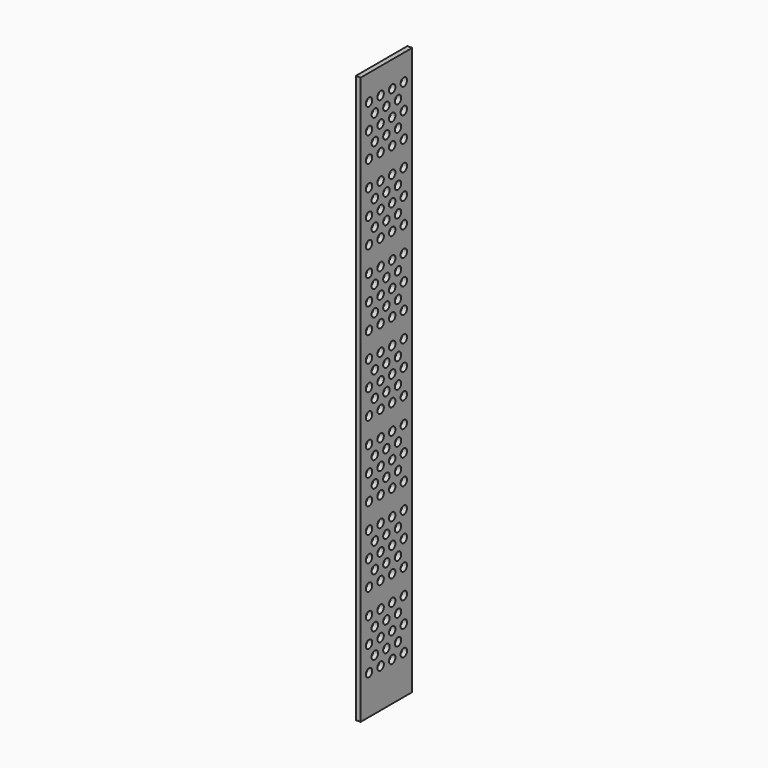
from build123d import *

# Parameters (mm, degrees)
F1_W     = 254
F1_H     = 2235.2
F1_R     = 15.875
F2_DEPTH = 19.05


with BuildPart() as f2:
    # F1 (on Right) → F2 (new body)
    with BuildSketch(Plane.YZ):
        Rectangle(F1_W, F1_H)
        with Locations((-85.725, -963.734073)):
            Circle(F1_R, mode=Mode.SUBTRACT)
        with Locations((-85.725, -864.747369)):
            Circle(F1_R, mode=Mode.SUBTRACT)
        with Locations((-85.725, -765.760666)):
            Circle(F1_R, mode=Mode.SUBTRACT)
        with Locations((-85.725, -666.773962)):
            Circle(F1_R, mode=Mode.SUBTRACT)
        with Locations((-85.725, -567.787258)):
            Circle(F1_R, mode=Mode.SUBTRACT)
        with Locations((-57.15, -914.240721)):
            Circle(F1_R, mode=Mode.SUBTRACT)
        with Locations((-28.575, -963.734073)):
            Circle(F1_R, mode=Mode.SUBTRACT)
        with Locations((-28.575, -864.747369)):
            Circle(F1_R, mode=Mode.SUBTRACT)
        with Locations((-57.15, -815.254018)):
            Circle(F1_R, mode=Mode.SUBTRACT)
        with Locations((-57.15, -617.28061)):
            Circle(F1_R, mode=Mode.SUBTRACT)
        with Locations((-28.575, -765.760666)):
            Circle(F1_R, mode=Mode.SUBTRACT)
        with Locations((-28.575, -666.773962)):
            Circle(F1_R, mode=Mode.SUBTRACT)
        with Locations((-28.575, -567.787258)):
            Circle(F1_R, mode=Mode.SUBTRACT)
        with Locations((-85.725, -468.800555)):
            Circle(F1_R, mode=Mode.SUBTRACT)
        with Locations((-85.725, -369.813851)):
            Circle(F1_R, mode=Mode.SUBTRACT)
        with Locations((-85.725, -270.827147)):
            Circle(F1_R, mode=Mode.SUBTRACT)
        with Locations((-85.725, -171.840444)):
            Circle(F1_R, mode=Mode.SUBTRACT)
        with Locations((-85.725, -72.85374)):
            Circle(F1_R, mode=Mode.SUBTRACT)
        with Locations((-57.15, -518.293907)):
            Circle(F1_R, mode=Mode.SUBTRACT)
        with Locations((-57.15, -320.320499)):
            Circle(F1_R, mode=Mode.SUBTRACT)
        with Locations((-28.575, -468.800555)):
            Circle(F1_R, mode=Mode.SUBTRACT)
        with Locations((-28.575, -369.813851)):
            Circle(F1_R, mode=Mode.SUBTRACT)
        with Locations((-57.15, -221.333796)):
            Circle(F1_R, mode=Mode.SUBTRACT)
        with Locations((-57.15, -23.360388)):
            Circle(F1_R, mode=Mode.SUBTRACT)
        with Locations((-28.575, -270.827147)):
            Circle(F1_R, mode=Mode.SUBTRACT)
        with Locations((-28.575, -171.840444)):
            Circle(F1_R, mode=Mode.SUBTRACT)
        with Locations((-28.575, -72.85374)):
            Circle(F1_R, mode=Mode.SUBTRACT)
        with Locations((0, -914.240721)):
            Circle(F1_R, mode=Mode.SUBTRACT)
        with Locations((28.575, -963.734073)):
            Circle(F1_R, mode=Mode.SUBTRACT)
        with Locations((28.575, -864.747369)):
            Circle(F1_R, mode=Mode.SUBTRACT)
        with Locations((57.15, -914.240721)):
            Circle(F1_R, mode=Mode.SUBTRACT)
        with Locations((0, -815.254018)):
            Circle(F1_R, mode=Mode.SUBTRACT)
        with Locations((28.575, -765.760666)):
            Circle(F1_R, mode=Mode.SUBTRACT)
        with Locations((0, -617.28061)):
            Circle(F1_R, mode=Mode.SUBTRACT)
        with Locations((28.575, -666.773962)):
            Circle(F1_R, mode=Mode.SUBTRACT)
        with Locations((28.575, -567.787258)):
            Circle(F1_R, mode=Mode.SUBTRACT)
        with Locations((57.15, -815.254018)):
            Circle(F1_R, mode=Mode.SUBTRACT)
        with Locations((57.15, -617.28061)):
            Circle(F1_R, mode=Mode.SUBTRACT)
        with Locations((85.725, -963.734073)):
            Circle(F1_R, mode=Mode.SUBTRACT)
        with Locations((85.725, -864.747369)):
            Circle(F1_R, mode=Mode.SUBTRACT)
        with Locations((85.725, -765.760666)):
            Circle(F1_R, mode=Mode.SUBTRACT)
        with Locations((85.725, -666.773962)):
            Circle(F1_R, mode=Mode.SUBTRACT)
        with Locations((85.725, -567.787258)):
            Circle(F1_R, mode=Mode.SUBTRACT)
        with Locations((0, -518.293907)):
            Circle(F1_R, mode=Mode.SUBTRACT)
        with Locations((28.575, -468.800555)):
            Circle(F1_R, mode=Mode.SUBTRACT)
        with Locations((0, -320.320499)):
            Circle(F1_R, mode=Mode.SUBTRACT)
        with Locations((28.575, -369.813851)):
            Circle(F1_R, mode=Mode.SUBTRACT)
        with Locations((57.15, -518.293907)):
            Circle(F1_R, mode=Mode.SUBTRACT)
        with Locations((57.15, -320.320499)):
            Circle(F1_R, mode=Mode.SUBTRACT)
        with Locations((0, -221.333796)):
            Circle(F1_R, mode=Mode.SUBTRACT)
        with Locations((28.575, -270.827147)):
            Circle(F1_R, mode=Mode.SUBTRACT)
        with Locations((28.575, -171.840444)):
            Circle(F1_R, mode=Mode.SUBTRACT)
        with Locations((0, -23.360388)):
            Circle(F1_R, mode=Mode.SUBTRACT)
        with Locations((28.575, -72.85374)):
            Circle(F1_R, mode=Mode.SUBTRACT)
        with Locations((57.15, -221.333796)):
            Circle(F1_R, mode=Mode.SUBTRACT)
        with Locations((57.15, -23.360388)):
            Circle(F1_R, mode=Mode.SUBTRACT)
        with Locations((85.725, -468.800555)):
            Circle(F1_R, mode=Mode.SUBTRACT)
        with Locations((85.725, -369.813851)):
            Circle(F1_R, mode=Mode.SUBTRACT)
        with Locations((85.725, -270.827147)):
            Circle(F1_R, mode=Mode.SUBTRACT)
        with Locations((85.725, -171.840444)):
            Circle(F1_R, mode=Mode.SUBTRACT)
        with Locations((85.725, -72.85374)):
            Circle(F1_R, mode=Mode.SUBTRACT)
        with Locations((-85.725, 26.132963)):
            Circle(F1_R, mode=Mode.SUBTRACT)
        with Locations((-85.725, 125.119667)):
            Circle(F1_R, mode=Mode.SUBTRACT)
        with Locations((-85.725, 224.106371)):
            Circle(F1_R, mode=Mode.SUBTRACT)
        with Locations((-85.725, 323.093074)):
            Circle(F1_R, mode=Mode.SUBTRACT)
        with Locations((-85.725, 422.079778)):
            Circle(F1_R, mode=Mode.SUBTRACT)
        with Locations((-85.725, 521.066482)):
            Circle(F1_R, mode=Mode.SUBTRACT)
        with Locations((-57.15, 75.626315)):
            Circle(F1_R, mode=Mode.SUBTRACT)
        with Locations((-57.15, 273.599723)):
            Circle(F1_R, mode=Mode.SUBTRACT)
        with Locations((-28.575, 26.132963)):
            Circle(F1_R, mode=Mode.SUBTRACT)
        with Locations((-28.575, 125.119667)):
            Circle(F1_R, mode=Mode.SUBTRACT)
        with Locations((-28.575, 224.106371)):
            Circle(F1_R, mode=Mode.SUBTRACT)
        with Locations((-57.15, 372.586426)):
            Circle(F1_R, mode=Mode.SUBTRACT)
        with Locations((-28.575, 323.093074)):
            Circle(F1_R, mode=Mode.SUBTRACT)
        with Locations((-28.575, 422.079778)):
            Circle(F1_R, mode=Mode.SUBTRACT)
        with Locations((-28.575, 521.066482)):
            Circle(F1_R, mode=Mode.SUBTRACT)
        with Locations((-85.725, 620.053185)):
            Circle(F1_R, mode=Mode.SUBTRACT)
        with Locations((-85.725, 719.039889)):
            Circle(F1_R, mode=Mode.SUBTRACT)
        with Locations((-85.725, 818.026593)):
            Circle(F1_R, mode=Mode.SUBTRACT)
        with Locations((-85.725, 917.013296)):
            Circle(F1_R, mode=Mode.SUBTRACT)
        with Locations((-85.725, 1016)):
            Circle(F1_R, mode=Mode.SUBTRACT)
        with Locations((-57.15, 570.559834)):
            Circle(F1_R, mode=Mode.SUBTRACT)
        with Locations((-57.15, 669.546537)):
            Circle(F1_R, mode=Mode.SUBTRACT)
        with Locations((-28.575, 620.053185)):
            Circle(F1_R, mode=Mode.SUBTRACT)
        with Locations((-28.575, 719.039889)):
            Circle(F1_R, mode=Mode.SUBTRACT)
        with Locations((-28.575, 818.026593)):
            Circle(F1_R, mode=Mode.SUBTRACT)
        with Locations((-57.15, 867.519945)):
            Circle(F1_R, mode=Mode.SUBTRACT)
        with Locations((-57.15, 966.506648)):
            Circle(F1_R, mode=Mode.SUBTRACT)
        with Locations((-28.575, 917.013296)):
            Circle(F1_R, mode=Mode.SUBTRACT)
        with Locations((-28.575, 1016)):
            Circle(F1_R, mode=Mode.SUBTRACT)
        with Locations((0, 75.626315)):
            Circle(F1_R, mode=Mode.SUBTRACT)
        with Locations((28.575, 26.132963)):
            Circle(F1_R, mode=Mode.SUBTRACT)
        with Locations((28.575, 125.119667)):
            Circle(F1_R, mode=Mode.SUBTRACT)
        with Locations((0, 273.599723)):
            Circle(F1_R, mode=Mode.SUBTRACT)
        with Locations((28.575, 224.106371)):
            Circle(F1_R, mode=Mode.SUBTRACT)
        with Locations((57.15, 75.626315)):
            Circle(F1_R, mode=Mode.SUBTRACT)
        with Locations((57.15, 273.599723)):
            Circle(F1_R, mode=Mode.SUBTRACT)
        with Locations((0, 372.586426)):
            Circle(F1_R, mode=Mode.SUBTRACT)
        with Locations((28.575, 323.093074)):
            Circle(F1_R, mode=Mode.SUBTRACT)
        with Locations((28.575, 422.079778)):
            Circle(F1_R, mode=Mode.SUBTRACT)
        with Locations((28.575, 521.066482)):
            Circle(F1_R, mode=Mode.SUBTRACT)
        with Locations((57.15, 372.586426)):
            Circle(F1_R, mode=Mode.SUBTRACT)
        with Locations((85.725, 26.132963)):
            Circle(F1_R, mode=Mode.SUBTRACT)
        with Locations((85.725, 125.119667)):
            Circle(F1_R, mode=Mode.SUBTRACT)
        with Locations((85.725, 224.106371)):
            Circle(F1_R, mode=Mode.SUBTRACT)
        with Locations((85.725, 323.093074)):
            Circle(F1_R, mode=Mode.SUBTRACT)
        with Locations((85.725, 422.079778)):
            Circle(F1_R, mode=Mode.SUBTRACT)
        with Locations((85.725, 521.066482)):
            Circle(F1_R, mode=Mode.SUBTRACT)
        with Locations((0, 570.559834)):
            Circle(F1_R, mode=Mode.SUBTRACT)
        with Locations((0, 669.546537)):
            Circle(F1_R, mode=Mode.SUBTRACT)
        with Locations((28.575, 620.053185)):
            Circle(F1_R, mode=Mode.SUBTRACT)
        with Locations((28.575, 719.039889)):
            Circle(F1_R, mode=Mode.SUBTRACT)
        with Locations((28.575, 818.026593)):
            Circle(F1_R, mode=Mode.SUBTRACT)
        with Locations((57.15, 570.559834)):
            Circle(F1_R, mode=Mode.SUBTRACT)
        with Locations((57.15, 669.546537)):
            Circle(F1_R, mode=Mode.SUBTRACT)
        with Locations((0, 867.519945)):
            Circle(F1_R, mode=Mode.SUBTRACT)
        with Locations((0, 966.506648)):
            Circle(F1_R, mode=Mode.SUBTRACT)
        with Locations((28.575, 917.013296)):
            Circle(F1_R, mode=Mode.SUBTRACT)
        with Locations((28.575, 1016)):
            Circle(F1_R, mode=Mode.SUBTRACT)
        with Locations((57.15, 867.519945)):
            Circle(F1_R, mode=Mode.SUBTRACT)
        with Locations((57.15, 966.506648)):
            Circle(F1_R, mode=Mode.SUBTRACT)
        with Locations((85.725, 620.053185)):
            Circle(F1_R, mode=Mode.SUBTRACT)
        with Locations((85.725, 719.039889)):
            Circle(F1_R, mode=Mode.SUBTRACT)
        with Locations((85.725, 818.026593)):
            Circle(F1_R, mode=Mode.SUBTRACT)
        with Locations((85.725, 917.013296)):
            Circle(F1_R, mode=Mode.SUBTRACT)
        with Locations((85.725, 1016)):
            Circle(F1_R, mode=Mode.SUBTRACT)
    extrude(amount=F2_DEPTH)


solid = f2.part
